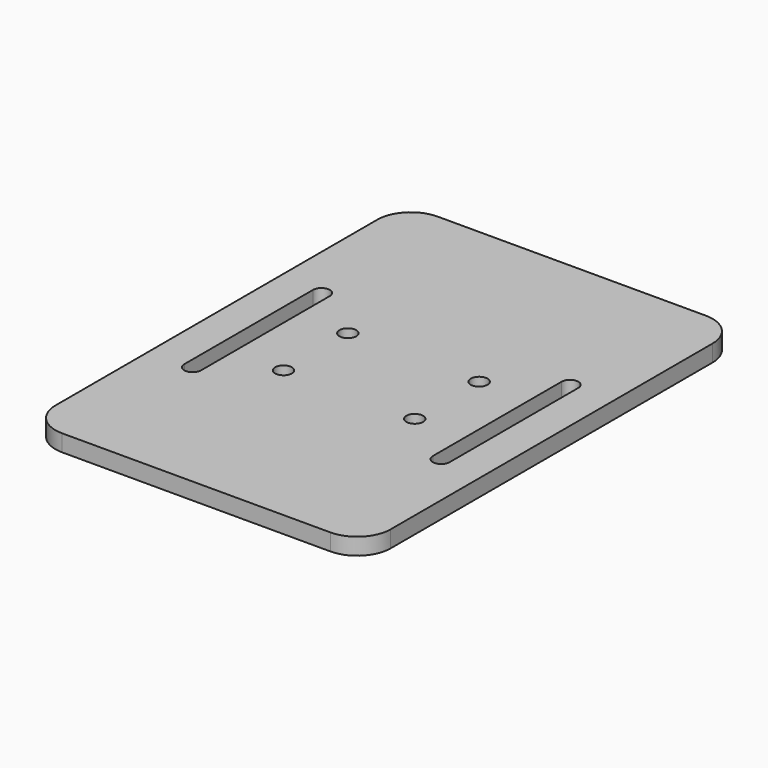
from build123d import *

# Parameters (mm, degrees)
F0_W     = 50
F0_H     = 140
F1_DEPTH = 5
F4_DEPTH = 62.609963119
F6_D     = 5
F8_R     = 10
F9_R     = 10
F10_R    = 10
F11_R    = 10


with BuildPart() as f1:
    # F0 (on Top) → F1 (new body)
    with BuildSketch(Plane.XY):
        with Locations((25, 70)):
            Rectangle(F0_W, F0_H)
    extrude(amount=F1_DEPTH)

    # F3 (on face) → F4 (cut)
    with BuildSketch(Plane.XY.offset(5)):
        with BuildLine():
            ThreePointArc((34.5700508356, 45), (37.0700508356, 42.5), (39.5700508356, 45))
            Line((39.5700508356, 45), (39.5700508356, 93))
            ThreePointArc((39.5700508356, 93), (37.0700508356, 95.5), (34.5700508356, 93))
            Line((34.5700508356, 93), (34.5700508356, 45))
        make_face()
    extrude(amount=-F4_DEPTH, mode=Mode.SUBTRACT)

    # F6 (through all)
    with Locations(Plane.XY.offset(5)):
        with Locations((19.5700508356, 57), (19.5700508356, 81)):
            Hole(F6_D / 2)

    # F7: F1 across plane


with BuildPart() as f1_1:
    add(f1.part)
    add(f1.part.mirror(Plane.YZ))

    # F8
    f8_edges = [f1_1.edges().sort_by_distance(p)[0] for p in [
        (50, 140, 2.5),
    ]]
    fillet(f8_edges, radius=F8_R)

    # F9
    f9_edges = [f1_1.edges().sort_by_distance(p)[0] for p in [
        (50, 0, 2.5),
    ]]
    fillet(f9_edges, radius=F9_R)

    # F10
    f10_edges = [f1_1.edges().sort_by_distance(p)[0] for p in [
        (-50, 0, 2.5),
    ]]
    fillet(f10_edges, radius=F10_R)

    # F11
    f11_edges = [f1_1.edges().sort_by_distance(p)[0] for p in [
        (-50, 140, 2.5),
    ]]
    fillet(f11_edges, radius=F11_R)


solid = f1_1.part
